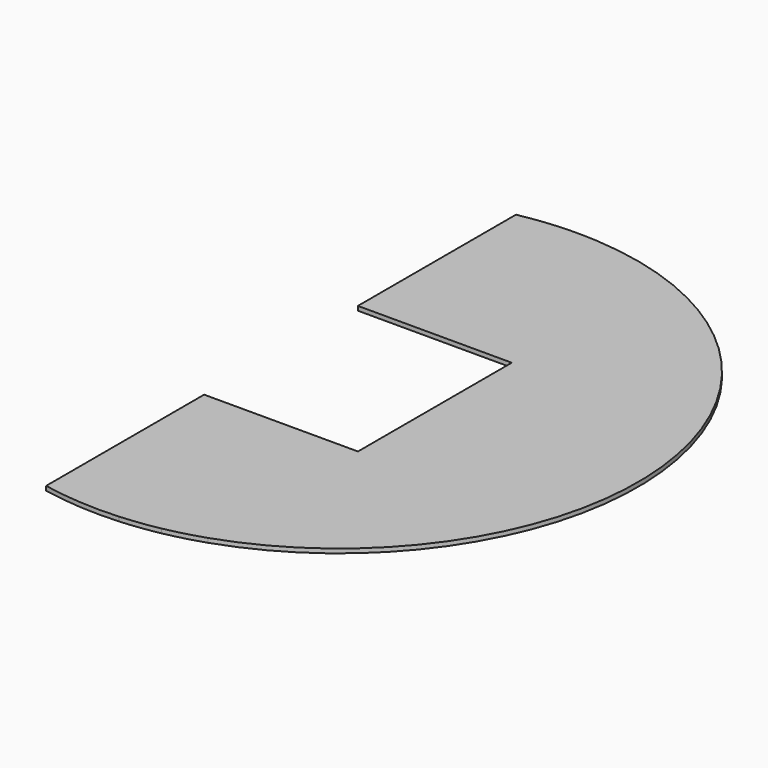
from build123d import *

# Parameters (mm, degrees)
F1_DEPTH = 25


with BuildPart() as f1:
    # F0 (on Top) → F1 (new body)
    with BuildSketch(Plane.XY):
        with BuildLine():
            Line((-675, 2241.7173917294), (-675, 3426.0975765688))
            ThreePointArc((-675, 3426.0975765688), (-787.9742669801, 3415.1312775012), (-900, 3396.8643714606))
            Line((-900, 3396.8643714606), (-900, 2241.7173917294))
            Line((-900, 2241.7173917294), (-675, 2241.7173917294))
        make_face()
        with BuildLine():
            Line((-450, 2241.7173917294), (-450, 3426.0975765688))
            ThreePointArc((-450, 3426.0975765688), (-562.5, 3429.7173917294), (-675, 3426.0975765688))
            Line((-675, 3426.0975765688), (-675, 2241.7173917294))
            Line((-675, 2241.7173917294), (-450, 2241.7173917294))
        make_face()
        with BuildLine():
            Line((-675, -66.6627931101), (-675, 1117.7173917294))
            Line((-675, 1117.7173917294), (-900, 1117.7173917294))
            Line((-900, 1117.7173917294), (-900, -37.4295880018))
            ThreePointArc((-900, -37.4295880018), (-787.9742669801, -55.6964940425), (-675, -66.6627931101))
        make_face()
        with BuildLine():
            Line((-450, -66.6627931101), (-450, 1117.7173917294))
            Line((-450, 1117.7173917294), (-675, 1117.7173917294))
            Line((-675, 1117.7173917294), (-675, -66.6627931101))
            ThreePointArc((-675, -66.6627931101), (-562.5, -70.2826082706), (-450, -66.6627931101))
        make_face()
        with BuildLine():
            Line((-225, 1117.7173917294), (-450, 1117.7173917294))
            Line((-450, 1117.7173917294), (-450, -66.6627931101))
            ThreePointArc((-450, -66.6627931101), (-337.0257330199, -55.6964940425), (-225, -37.4295880018))
            Line((-225, -37.4295880018), (-225, 1117.7173917294))
        make_face()
        with BuildLine():
            ThreePointArc((0, 3336.8515896747), (-111.5006834878, 3370.6046193426), (-225, 3396.8643714606))
            Line((-225, 3396.8643714606), (-225, 2241.7173917294))
            Line((-225, 2241.7173917294), (-0.5, 2241.7173917294))
            Line((-0.5, 2241.7173917294), (-0.5, 1117.7173917294))
            Line((-0.5, 1117.7173917294), (-225, 1117.7173917294))
            Line((-225, 1117.7173917294), (-225, -37.4295880018))
            ThreePointArc((-225, -37.4295880018), (-111.5006834878, -11.1698358839), (0, 22.583193784))
            Line((0, 22.583193784), (0, 3336.8515896747))
        make_face()
        with BuildLine():
            ThreePointArc((0, 3336.8515896747), (-111.5006834878, 3370.6046193426), (-225, 3396.8643714606))
            Line((-225, 3396.8643714606), (-225, 2241.7173917294))
            Line((-225, 2241.7173917294), (-0.5, 2241.7173917294))
            Line((-0.5, 2241.7173917294), (-0.5, 1117.7173917294))
            Line((-0.5, 1117.7173917294), (-225, 1117.7173917294))
            Line((-225, 1117.7173917294), (-225, -37.4295880018))
            ThreePointArc((-225, -37.4295880018), (-111.5006834878, -11.1698358839), (0, 22.583193784))
            Line((0, 22.583193784), (0, 3336.8515896747))
        make_face()
        with BuildLine():
            ThreePointArc((450, 3107.0729010542), (340.044348253, 3179.0217969241), (225, 3242.5173629349))
            Line((225, 3242.5173629349), (225, 116.9174205238))
            ThreePointArc((225, 116.9174205238), (340.044348253, 180.4129865346), (450, 252.3618824045))
            Line((450, 252.3618824045), (450, 3107.0729010542))
        make_face()
        with BuildLine():
            ThreePointArc((900, 2640.7552421807), (794.5520917452, 2784.6651824823), (674.9999999999, 2917.0911226612))
            Line((675, 2917.0911226612), (675, 442.3436607977))
            ThreePointArc((675.0000000001, 442.3436607977), (794.5520917453, 574.7696009764), (900, 718.679541278))
            Line((900, 718.679541278), (900, 2640.7552421807))
        make_face()
        with BuildLine():
            ThreePointArc((1125, 2143.2297971729), (1032.024346665, 2400.8221746094), (900, 2640.7552421807))
            Line((900, 2640.7552421807), (900, 718.679541278))
            ThreePointArc((900, 718.679541278), (1032.024346665, 958.6126088493), (1125, 1216.2049862858))
            Line((1125, 1216.2049862858), (1125, 2143.2297971729))
        make_face()
        with BuildLine():
            ThreePointArc((1187.5, 1679.7173917294), (1171.8046156889, 1913.5709784027), (1125, 2143.2297971729))
            Line((1125, 2143.2297971729), (1125, 1216.2049862858))
            ThreePointArc((1125, 1216.2049862858), (1171.8046156889, 1445.863805056), (1187.5, 1679.7173917294))
        make_face()
        with BuildLine():
            ThreePointArc((674.9999999999, 2917.0911226612), (566.5032192294, 3016.8231208958), (450, 3107.0729010542))
            Line((450, 3107.0729010542), (450, 252.3618824045))
            ThreePointArc((450, 252.3618824045), (566.5032192294, 342.611662563), (675.0000000001, 442.3436607977))
            Line((675, 442.3436607977), (675, 2917.0911226612))
        make_face()
        with BuildLine():
            ThreePointArc((225, 3242.5173629349), (114.1459462552, 3293.6102826662), (0, 3336.8515896747))
            Line((0, 3336.8515896747), (0, 22.583193784))
            ThreePointArc((0, 22.583193784), (114.1459462552, 65.8245007925), (225, 116.9174205238))
            Line((225, 116.9174205238), (225, 3242.5173629349))
        make_face()
        with BuildLine():
            ThreePointArc((-225, 3396.8643714606), (-337.0257330198, 3415.1312775012), (-450, 3426.0975765688))
            Line((-450, 3426.0975765688), (-450, 2241.7173917294))
            Line((-450, 2241.7173917294), (-225, 2241.7173917294))
            Line((-225, 2241.7173917294), (-225, 3396.8643714606))
        make_face()
        with BuildLine():
            ThreePointArc((225, 3242.5173629349), (114.1459462552, 3293.6102826662), (0, 3336.8515896747))
            Line((0, 3336.8515896747), (0, 22.583193784))
            ThreePointArc((0, 22.583193784), (114.1459462552, 65.8245007925), (225, 116.9174205238))
            Line((225, 116.9174205238), (225, 3242.5173629349))
        make_face()
    extrude(amount=F1_DEPTH)


solid = f1.part
